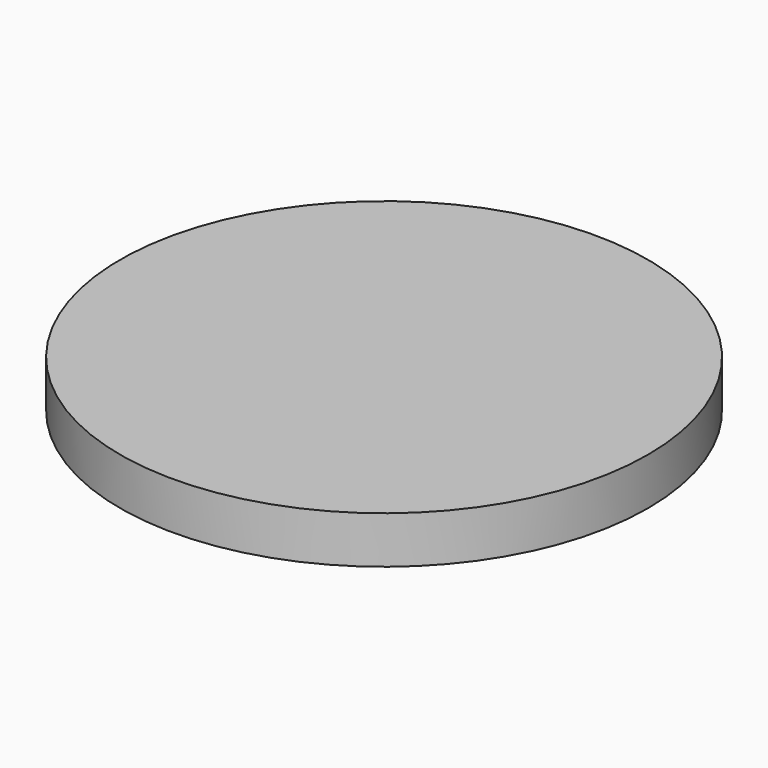
from build123d import *

# Parameters (mm, degrees)
F0_R     = 11.2
F1_DEPTH = 2
F2_R     = 6
F2_R_2   = 4.064
F3_DEPTH = 1.5


with BuildPart() as f1:
    # F0 (on Top) → F1 (new body)
    with BuildSketch(Plane.XY):
        Circle(F0_R)
    extrude(amount=F1_DEPTH)

    # F2 (on face) → F3 (join)
    with BuildSketch(Plane(origin=(0, 0, 0), x_dir=(1, 0, 0), z_dir=(0, 0, -1))):
        Circle(F2_R)
        Circle(F2_R_2, mode=Mode.SUBTRACT)
    extrude(amount=F3_DEPTH)


solid = f1.part
